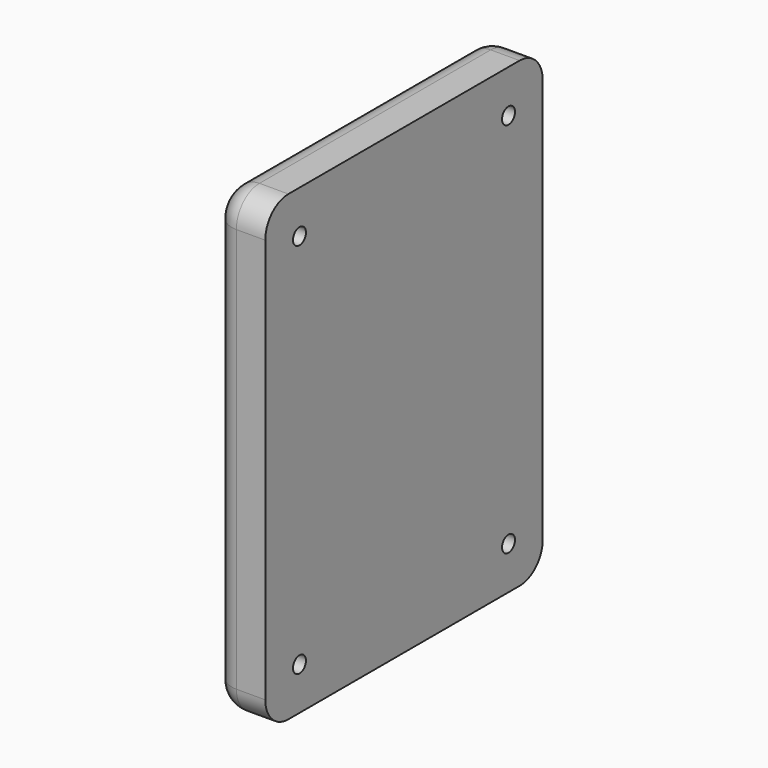
from build123d import *

# Parameters (mm, degrees)
F0_W     = 76.2
F0_H     = 101.6
F0_R     = 1.778
F1_DEPTH = 11.43
F2_R     = 6.35
F3_R     = 5.08


with BuildPart() as f1:
    # F0 (on Right) → F1 (new body)
    with BuildSketch(Plane.YZ):
        with Locations((3.138589, -14.71612)):
            Rectangle(F0_W, F0_H)
        with Locations((-25.563411, -56.11812)):
            Circle(F0_R, mode=Mode.SUBTRACT)
        with Locations((31.840589, -56.11812)):
            Circle(F0_R, mode=Mode.SUBTRACT)
        with Locations((-25.563411, 26.68588)):
            Circle(F0_R, mode=Mode.SUBTRACT)
        with Locations((31.840589, 26.68588)):
            Circle(F0_R, mode=Mode.SUBTRACT)
    extrude(amount=F1_DEPTH)

    # F2
    f2_edges = [f1.edges().sort_by_distance(p)[0] for p in [
        (5.715, 41.238589, 36.08388),
        (5.715, 41.238589, -65.51612),
        (5.715, -34.961411, 36.08388),
        (5.715, -34.961411, -65.51612),
    ]]
    fillet(f2_edges, radius=F2_R)

    # F3
    f3_edges = [f1.edges().sort_by_distance(p)[0] for p in [
        (0, 3.138589, 36.08388),
    ]]
    fillet(f3_edges, radius=F3_R)


solid = f1.part
